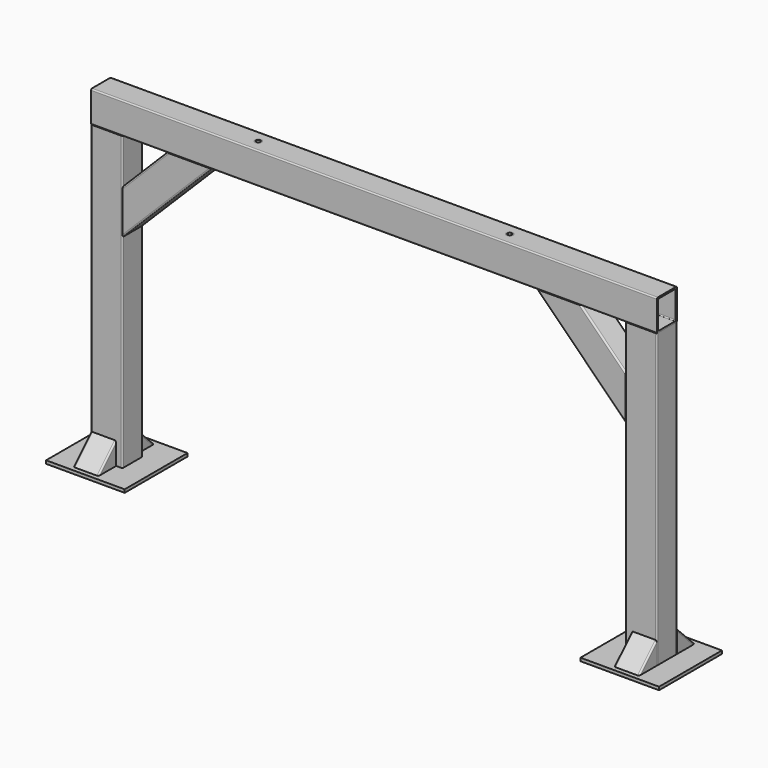
from build123d import *

# Parameters (mm, degrees)
F1_DEPTH  = 930
F3_DEPTH  = 1800
F5_DEPTH  = 40
F6_R      = 5
F7_W      = 250
F7_H      = 250
F8_DEPTH  = 10
F10_DEPTH = 80
F11_R     = 5
F13_R     = 11
F14_DEPTH = 100
F15_R     = 11
F15_R_2   = 7
F16_DEPTH = 100
F17_R     = 5
F18_R     = 5


with BuildPart() as f1:
    # F0 (on Top) → F1 (new body)
    with BuildSketch(Plane.XY):
        with BuildLine():
            Line((-896, -40), (-804, -40))
            ThreePointArc((-804, -40), (-801.171573, -38.828427), (-800, -36))
            Line((-800, -36), (-800, 36))
            ThreePointArc((-800, 36), (-801.171573, 38.828427), (-804, 40))
            Line((-804, 40), (-896, 40))
            ThreePointArc((-896, 40), (-898.828427, 38.828427), (-900, 36))
            Line((-900, 36), (-900, -36))
            ThreePointArc((-900, -36), (-898.828427, -38.828427), (-896, -40))
        make_face()
        with BuildLine():
            ThreePointArc((-805, -32), (-805.87868, -34.12132), (-808, -35))
            Line((-808, -35), (-892, -35))
            ThreePointArc((-892, -35), (-894.12132, -34.12132), (-895, -32))
            Line((-895, -32), (-895, 32))
            ThreePointArc((-895, 32), (-894.12132, 34.12132), (-892, 35))
            Line((-892, 35), (-808, 35))
            ThreePointArc((-808, 35), (-805.87868, 34.12132), (-805, 32))
            Line((-805, 32), (-805, -32))
        make_face(mode=Mode.SUBTRACT)
        with BuildLine():
            ThreePointArc((804, 40), (801.171573, 38.828427), (800, 36))
            Line((800, 36), (800, -36))
            ThreePointArc((800, -36), (801.171573, -38.828427), (804, -40))
            Line((804, -40), (896, -40))
            ThreePointArc((896, -40), (898.828427, -38.828427), (900, -36))
            Line((900, -36), (900, 36))
            ThreePointArc((900, 36), (898.828427, 38.828427), (896, 40))
            Line((896, 40), (804, 40))
        make_face()
        with BuildLine():
            Line((892, -35), (808, -35))
            ThreePointArc((808, -35), (805.87868, -34.12132), (805, -32))
            Line((805, -32), (805, 32))
            ThreePointArc((805, 32), (805.87868, 34.12132), (808, 35))
            Line((808, 35), (892, 35))
            ThreePointArc((892, 35), (894.12132, 34.12132), (895, 32))
            Line((895, 32), (895, -32))
            ThreePointArc((895, -32), (894.12132, -34.12132), (892, -35))
        make_face(mode=Mode.SUBTRACT)
    extrude(amount=F1_DEPTH)


with BuildPart() as f3:
    # F2 (on face) → F3 (new body)
    with BuildSketch(Plane(origin=(-900, 0, 0), x_dir=(0, -1, 0), z_dir=(-1, 0, 0))):
        with BuildLine():
            Line((-36, 930), (36, 930))
            ThreePointArc((36, 930), (38.828427, 931.171573), (40, 934))
            Line((40, 934), (40, 1026))
            ThreePointArc((40, 1026), (38.828427, 1028.828427), (36, 1030))
            Line((36, 1030), (-36, 1030))
            ThreePointArc((-36, 1030), (-38.828427, 1028.828427), (-40, 1026))
            Line((-40, 1026), (-40, 934))
            ThreePointArc((-40, 934), (-38.828427, 931.171573), (-36, 930))
        make_face()
        with BuildLine():
            ThreePointArc((35, 938), (34.12132, 935.87868), (32, 935))
            Line((32, 935), (-32, 935))
            ThreePointArc((-32, 935), (-34.12132, 935.87868), (-35, 938))
            Line((-35, 938), (-35, 1022))
            ThreePointArc((-35, 1022), (-34.12132, 1024.12132), (-32, 1025))
            Line((-32, 1025), (32, 1025))
            ThreePointArc((32, 1025), (34.12132, 1024.12132), (35, 1022))
            Line((35, 1022), (35, 938))
        make_face(mode=Mode.SUBTRACT)
    extrude(amount=-F3_DEPTH)

    # F13 (on face) → F14 (cut)
    with BuildSketch(Plane(origin=(0, 0, 930), x_dir=(1, 0, 0), z_dir=(0, 0, -1))):
        with Locations((-400, 0)):
            Circle(F13_R)
        with Locations((400, 0)):
            Circle(F13_R)
    extrude(amount=-F14_DEPTH, mode=Mode.SUBTRACT)


with BuildPart() as f5:
    # F4 (on Front) → F5 (new body, symmetric)
    with BuildSketch(Plane.XZ):
        Polygon((800, 647.157288), (800, 788.578644), (658.578644, 930), (517.157288, 930), align=None)
        Polygon((-658.578644, 930), (-800, 788.578644), (-800, 647.157288), (-517.157288, 930), align=None)
    extrude(amount=F5_DEPTH, both=True)

    # F6
    f6_edges = [f5.edges().sort_by_distance(p)[0] for p in [
        (658.578644, 40, 788.578644),
        (658.578644, -40, 788.578644),
        (-658.578644, 40, 788.578644),
        (-658.578644, -40, 788.578644),
    ]]
    fillet(f6_edges, radius=F6_R)

    # F17
    f17_edges = [f5.edges().sort_by_distance(p)[0] for p in [
        (-729.289322, -40, 859.289322),
        (-729.289322, 40, 859.289322),
    ]]
    fillet(f17_edges, radius=F17_R)

    # F18
    f18_edges = [f5.edges().sort_by_distance(p)[0] for p in [
        (729.289322, 40, 859.289322),
        (729.289322, -40, 859.289322),
    ]]
    fillet(f18_edges, radius=F18_R)


with BuildPart() as f8:
    # F7 (on face) → F8 (new body)
    with BuildSketch(Plane(origin=(0, 0, 0), x_dir=(1, 0, 0), z_dir=(0, 0, -1))):
        with Locations((850, 0)):
            Rectangle(F7_W, F7_H)
        with Locations((-850, 0)):
            Rectangle(F7_W, F7_H)
    extrude(amount=F8_DEPTH)


with BuildPart() as f10:
    # F9 (on face) → F10 (new body)
    with BuildSketch(Plane.YZ.offset(900)):
        Polygon((-40, 0), (-40, 70.710678), (-110.710678, 0), align=None)
        Polygon((110.710678, 0), (40, 70.710678), (40, 0), align=None)
    extrude(amount=-F10_DEPTH)

    # F11
    f11_edges = [f10.edges().sort_by_distance(p)[0] for p in [
        (900, 75.355339, 35.355339),
        (820, 75.355339, 35.355339),
        (900, -75.355339, 35.355339),
        (820, -75.355339, 35.355339),
    ]]
    fillet(f11_edges, radius=F11_R)


with BuildPart() as f12_1:
    # F12: instance of F10
    add(f10.part.mirror(Plane.YZ))


with BuildPart() as f16:
    # F15 (on face) → F16 (new body)
    with BuildSketch(Plane(origin=(0, 0, 930), x_dir=(1, 0, 0), z_dir=(0, 0, -1))):
        with Locations((-400, 0)):
            Circle(F15_R)
        with Locations((-400, 0)):
            Circle(F15_R_2, mode=Mode.SUBTRACT)
        with Locations((400, 0)):
            Circle(F15_R)
        with Locations((400, 0)):
            Circle(F15_R_2, mode=Mode.SUBTRACT)
    extrude(amount=-F16_DEPTH)


solid = Compound([f1.part, f3.part, f5.part, f8.part, f10.part, f12_1.part, f16.part])
